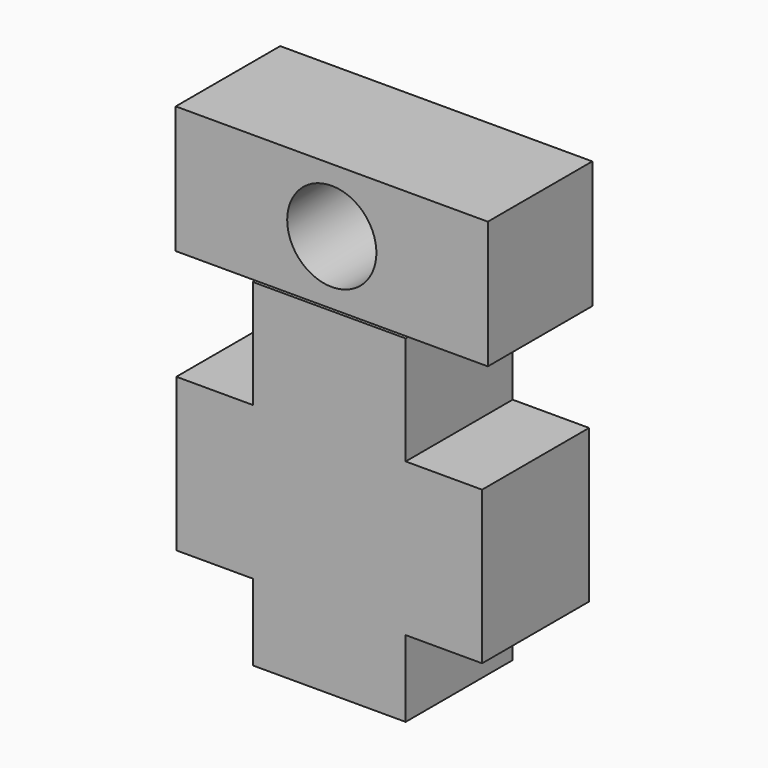
from build123d import *

# Parameters (mm, degrees)
F1_DEPTH = 21
F2_W     = 12.5
F2_H     = 20
F2_W_2   = 24
F3_DEPTH = 20
F5_DEPTH = 0.5
F6_R     = 7
F7_DEPTH = 25


with BuildPart() as f1:
    # F0 (on Front) → F1 (new body)
    with BuildSketch(Plane.XZ):
        Polygon((0, 12), (0, 0), (24, 0), (24, 12), (36, 12), (36, 36), (24, 36), (24, 53), (0, 53), (0, 36), (-12, 36), (-12, 12), align=None)
    extrude(amount=F1_DEPTH)

    # F2 (on face) → F3 (join)
    with BuildSketch(Plane.XY.offset(53)):
        with Locations((30.25, -10.5)):
            Rectangle(F2_W, F2_H)
        with Locations((12, -10.5)):
            Rectangle(F2_W_2, F2_H)
        with Locations((-6.25, -10.5)):
            Rectangle(F2_W, F2_H)
    extrude(amount=F3_DEPTH)

    # F4 (on face) → F5 (join)
    with BuildSketch(Plane(origin=(0, -0.5, 0), x_dir=(-1, 0, 0), z_dir=(0, 1, 0))):
        Polygon((12.5, 73), (-36.5, 73), (-36.5, 53), (-24, 53), (0, 53), (12.5, 53), align=None)
    extrude(amount=F5_DEPTH)

    # F6 (on face) → F7 (cut)
    with BuildSketch(Plane(origin=(0, 0, 0), x_dir=(-1, 0, 0), z_dir=(0, 1, 0))):
        with Locations((-12, 63)):
            Circle(F6_R)
    extrude(amount=-F7_DEPTH, mode=Mode.SUBTRACT)


solid = f1.part
